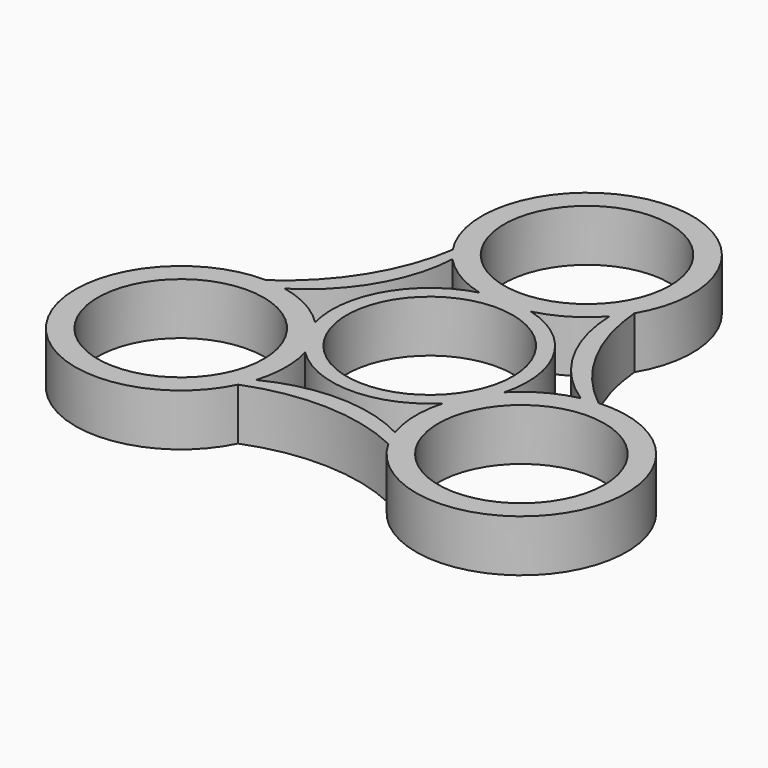
from build123d import *

# Parameters (mm, degrees)
F0_R     = 11.2
F1_DEPTH = 7


with BuildPart() as f1:
    # F0 (on Top) → F1 (new body)
    with BuildSketch(Plane.XY):
        with BuildLine():
            ThreePointArc((-10.461899, 16.917701), (-7.259172, 14.314915), (-3.443284, 12.74299))
            ThreePointArc((-3.443284, 12.74299), (-11.431535, 6.6), (-12.757395, -3.389524))
            ThreePointArc((-12.757395, -3.389524), (-16.111427, -0.823731), (-20.071696, 0.642248))
            ThreePointArc((-20.071696, 0.642248), (-21.411446, 0.855021), (-22.765386, 0.938982))
            ThreePointArc((-22.765386, 0.938982), (-35.073825, -20.679014), (-10.224124, -19.526737))
            ThreePointArc((-10.224124, -19.526737), (-9.783892, -18.538255), (-9.420209, -17.51912))
            ThreePointArc((-9.420209, -17.51912), (-8.767494, -13.444085), (-9.314111, -9.353466))
            ThreePointArc((-9.314111, -9.353466), (0, -13.2), (9.314111, -9.353466))
            ThreePointArc((9.314111, -9.353466), (8.769085, -13.541039), (9.479645, -17.703722))
            ThreePointArc((9.479645, -17.703722), (9.965253, -18.970367), (10.569511, -20.184894))
            ThreePointArc((10.569511, -20.184894), (35.445464, -20.035316), (22.022712, 0.909018))
            ThreePointArc((22.022712, 0.909018), (20.946546, 0.796028), (19.882108, 0.60142))
            ThreePointArc((19.882108, 0.60142), (16.026666, -0.870831), (12.757395, -3.389524))
            ThreePointArc((12.757395, -3.389524), (11.431535, 6.6), (3.443284, 12.74299))
            ThreePointArc((3.443284, 12.74299), (7.342341, 14.36477), (10.592051, 17.061474))
            ThreePointArc((10.592051, 17.061474), (11.446193, 18.115346), (12.195875, 19.245912))
            ThreePointArc((12.195875, 19.245912), (-0.371639, 40.71433), (-11.798589, 18.617719))
            ThreePointArc((-11.798589, 18.617719), (-11.162654, 17.742227), (-10.461899, 16.917701))
        make_face()
        with Locations((-22.966296, -13.259597)):
            Circle(F0_R, mode=Mode.SUBTRACT)
        with Locations((22.966296, -13.259597)):
            Circle(F0_R, mode=Mode.SUBTRACT)
        Circle(F0_R, mode=Mode.SUBTRACT)
        with Locations((0, 26.519194)):
            Circle(F0_R, mode=Mode.SUBTRACT)
        with BuildLine():
            ThreePointArc((-20.071696, 0.642248), (-13.280016, 7.606885), (-10.461899, 16.917701))
            ThreePointArc((-10.461899, 16.917701), (-11.162654, 17.742227), (-11.798589, 18.617719))
            ThreePointArc((-11.798589, 18.617719), (-15.442187, 8.637052), (-22.765386, 0.938982))
            ThreePointArc((-22.765386, 0.938982), (-21.411446, 0.855021), (-20.071696, 0.642248))
        make_face()
        with BuildLine():
            ThreePointArc((22.022712, 0.909018), (15.201, 9.054801), (12.195875, 19.245912))
            ThreePointArc((12.195875, 19.245912), (11.446193, 18.115346), (10.592051, 17.061474))
            ThreePointArc((10.592051, 17.061474), (13.227764, 7.697389), (19.882108, 0.60142))
            ThreePointArc((19.882108, 0.60142), (20.946546, 0.796028), (22.022712, 0.909018))
        make_face()
        with BuildLine():
            ThreePointArc((-9.420209, -17.51912), (-9.783892, -18.538255), (-10.224124, -19.526737))
            ThreePointArc((-10.224124, -19.526737), (0.241187, -17.691853), (10.569511, -20.184894))
            ThreePointArc((10.569511, -20.184894), (9.965253, -18.970367), (9.479645, -17.703722))
            ThreePointArc((9.479645, -17.703722), (0.052253, -15.304274), (-9.420209, -17.51912))
        make_face()
    extrude(amount=F1_DEPTH)


solid = f1.part
